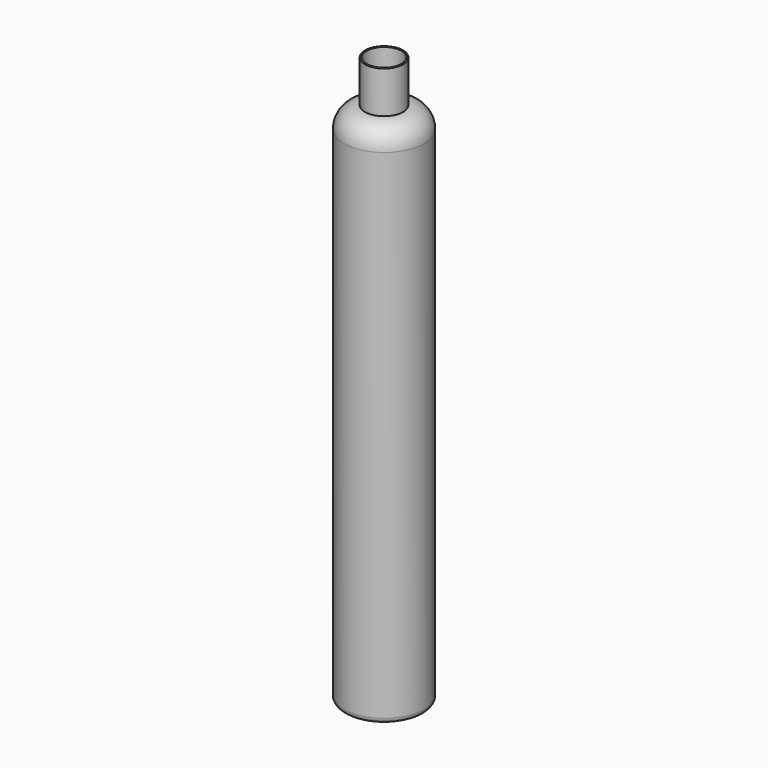
from build123d import *

# Parameters (mm, degrees)
F0_R     = 114.5
F1_DEPTH = 1500
F2_R     = 60
F3_R     = 15
F4_R     = 54.5
F4_R_2   = 50
F5_DEPTH = 120


with BuildPart() as f1:
    # F0 (on Top) → F1 (new body)
    with BuildSketch(Plane.XY):
        Circle(F0_R)
    extrude(amount=F1_DEPTH)

    # F2
    f2_edges = [f1.edges().sort_by_distance(p)[0] for p in [
        (-114.5, 0, 1500),
    ]]
    fillet(f2_edges, radius=F2_R)

    # F3
    f3_edges = [f1.edges().sort_by_distance(p)[0] for p in [
        (-114.5, 0, 0),
    ]]
    fillet(f3_edges, radius=F3_R)

    # F4 (on face) → F5 (join)
    with BuildSketch(Plane.XY.offset(1500)):
        Circle(F4_R)
        Circle(F4_R_2, mode=Mode.SUBTRACT)
    extrude(amount=F5_DEPTH)


solid = f1.part
